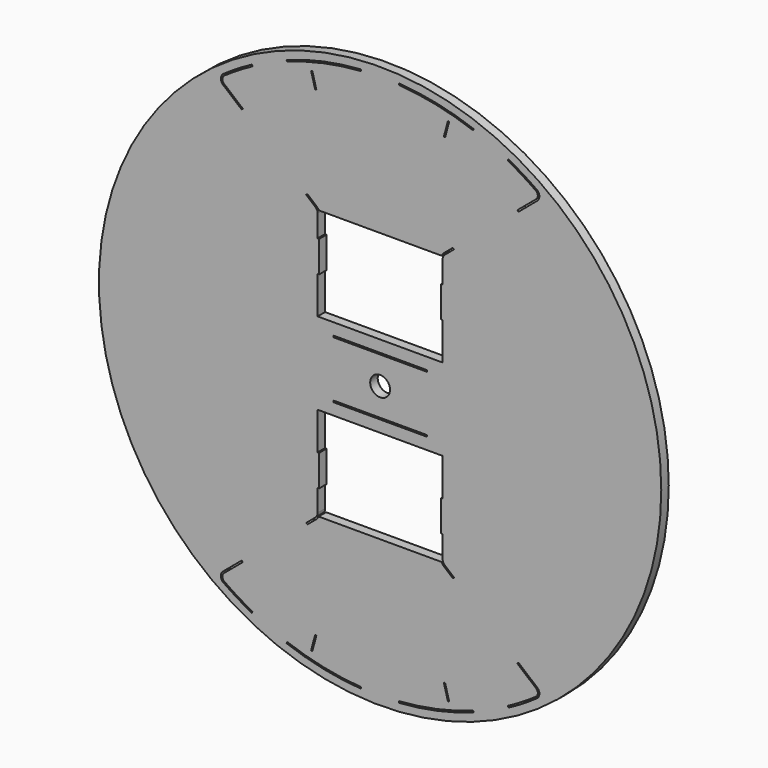
from build123d import *

# Parameters (mm, degrees)
F0_R     = 90
F0_W     = 30
F0_H     = 0.5
F0_R_2   = 3.17
F1_DEPTH = 3


with BuildPart() as f1:
    # F0 (on Front) → F1 (new body)
    with BuildSketch(Plane.XZ):
        Circle(F0_R)
        with BuildLine():
            ThreePointArc((-41.078762, -77.257914), (-45.686982, -74.625396), (-50.127129, -71.718345))
            ThreePointArc((-50.127129, -71.718345), (-50.979425, -70.167154), (-50.266941, -68.546979))
            Line((-50.266941, -68.546979), (-44.332839, -63.567676))
            ThreePointArc((-44.332839, -63.567676), (-44.12, -63.715584), (-43.906667, -63.862779))
            Line((-43.906667, -63.862779), (-49.945547, -68.930001))
            ThreePointArc((-49.945547, -68.930001), (-50.47991, -70.145133), (-49.840688, -71.308525))
            ThreePointArc((-49.840688, -71.308525), (-45.425914, -74.198965), (-40.844026, -76.816441))
            Line((-40.844026, -76.816441), (-41.078762, -77.257914))
        make_face(mode=Mode.SUBTRACT)
        with BuildLine():
            Line((-29.926763, -82.223104), (-29.755752, -81.753258))
            ThreePointArc((-29.755752, -81.753258), (-18.088317, -85.098841), (-6.068813, -86.788072))
            Line((-6.068813, -86.788072), (-6.103691, -87.286854))
            ThreePointArc((-6.103691, -87.286854), (-18.192273, -85.587915), (-29.926763, -82.223104))
        make_face(mode=Mode.SUBTRACT)
        Polygon((-20.795181, -76.835932), (-20.408811, -76.93946), (-21.702906, -81.769089), (-22.089276, -81.665561), align=None, mode=Mode.SUBTRACT)
        with BuildLine():
            Line((6.103691, -87.286854), (6.068813, -86.788072))
            ThreePointArc((6.068813, -86.788072), (18.088317, -85.098841), (29.755752, -81.753258))
            Line((29.755752, -81.753258), (29.926763, -82.223104))
            ThreePointArc((29.926763, -82.223104), (18.192273, -85.587915), (6.103691, -87.286854))
        make_face(mode=Mode.SUBTRACT)
        Polygon((22.089276, -81.665561), (21.702906, -81.769089), (20.408811, -76.93946), (20.795181, -76.835932), align=None, mode=Mode.SUBTRACT)
        with BuildLine():
            ThreePointArc((50.266941, -68.546979), (50.979425, -70.167154), (50.127129, -71.718345))
            ThreePointArc((50.127129, -71.718345), (45.686982, -74.625396), (41.078762, -77.257914))
            Line((41.078762, -77.257914), (40.844026, -76.816441))
            ThreePointArc((40.844026, -76.816441), (45.425914, -74.198965), (49.840688, -71.308525))
            ThreePointArc((49.840688, -71.308525), (50.47991, -70.145133), (49.945547, -68.930001))
            Line((49.945547, -68.930001), (43.906667, -63.862779))
            ThreePointArc((43.906667, -63.862779), (44.12, -63.715584), (44.332839, -63.567676))
            Line((44.332839, -63.567676), (50.266941, -68.546979))
        make_face(mode=Mode.SUBTRACT)
        with BuildLine():
            Line((-23.722514, -46.27356), (-20.714425, -43.749474))
            ThreePointArc((-20.714425, -43.749474), (-20.187384, -43.062621), (-20, -42.217385))
            Line((-20, -42.217385), (-20, -35.15))
            Line((-20, -35.15), (-19.5, -35.15))
            Line((-19.5, -35.15), (-19.5, -25.15))
            Line((-19.5, -25.15), (-20, -25.15))
            Line((-20, -25.15), (-20, -15.15))
            Line((-20, -15.15), (-20, -13.15))
            Line((-20, -13.15), (-18, -13.15))
            Line((-18, -13.15), (-7.5, -13.15))
            Line((-7.5, -13.15), (7.5, -13.15))
            Line((7.5, -13.15), (18, -13.15))
            Line((18, -13.15), (20, -13.15))
            Line((20, -13.15), (20, -15.15))
            Line((20, -15.15), (20, -25.15))
            Line((20, -25.15), (19.5, -25.15))
            Line((19.5, -25.15), (19.5, -35.15))
            Line((19.5, -35.15), (20, -35.15))
            Line((20, -35.15), (20, -42.217385))
            ThreePointArc((20, -42.217385), (20.187384, -43.062621), (20.714425, -43.749474))
            Line((20.714425, -43.749474), (23.722514, -46.27356))
            ThreePointArc((23.722514, -46.27356), (23.480225, -46.396972), (23.237294, -46.519116))
            Line((23.237294, -46.519116), (20.393031, -44.132496))
            ThreePointArc((20.393031, -44.132496), (19.976222, -43.685146), (19.680468, -43.15))
            Line((19.680468, -43.15), (-19.680468, -43.15))
            ThreePointArc((-19.680468, -43.15), (-19.976222, -43.685146), (-20.393031, -44.132496))
            Line((-20.393031, -44.132496), (-23.237294, -46.519116))
            ThreePointArc((-23.237294, -46.519116), (-23.480225, -46.396972), (-23.722514, -46.27356))
        make_face(mode=Mode.SUBTRACT)
        with Locations((0, -9.15)):
            Rectangle(F0_W, F0_H, mode=Mode.SUBTRACT)
        with BuildLine():
            Line((-49.945547, 68.930001), (-43.906667, 63.862779))
            ThreePointArc((-43.906667, 63.862779), (-44.12, 63.715584), (-44.332839, 63.567676))
            Line((-44.332839, 63.567676), (-50.266941, 68.546979))
            ThreePointArc((-50.266941, 68.546979), (-50.979425, 70.167154), (-50.127129, 71.718345))
            ThreePointArc((-50.127129, 71.718345), (-45.686982, 74.625396), (-41.078762, 77.257914))
            Line((-41.078762, 77.257914), (-40.844026, 76.816441))
            ThreePointArc((-40.844026, 76.816441), (-45.425914, 74.198965), (-49.840688, 71.308525))
            ThreePointArc((-49.840688, 71.308525), (-50.47991, 70.145133), (-49.945547, 68.930001))
        make_face(mode=Mode.SUBTRACT)
        Polygon((-22.089276, 81.665561), (-21.702906, 81.769089), (-20.408811, 76.93946), (-20.795181, 76.835932), align=None, mode=Mode.SUBTRACT)
        with BuildLine():
            ThreePointArc((-6.068813, 86.788072), (-18.088317, 85.098841), (-29.755752, 81.753258))
            Line((-29.755752, 81.753258), (-29.926763, 82.223104))
            ThreePointArc((-29.926763, 82.223104), (-18.192273, 85.587915), (-6.103691, 87.286854))
            Line((-6.103691, 87.286854), (-6.068813, 86.788072))
        make_face(mode=Mode.SUBTRACT)
        Circle(F0_R_2, mode=Mode.SUBTRACT)
        with Locations((0, 9.15)):
            Rectangle(F0_W, F0_H, mode=Mode.SUBTRACT)
        with BuildLine():
            ThreePointArc((19.680468, 43.15), (19.976222, 43.685146), (20.393031, 44.132496))
            Line((20.393031, 44.132496), (23.237294, 46.519116))
            ThreePointArc((23.237294, 46.519116), (23.480225, 46.396972), (23.722514, 46.27356))
            Line((23.722514, 46.27356), (20.714425, 43.749474))
            ThreePointArc((20.714425, 43.749474), (20.187384, 43.062621), (20, 42.217385))
            Line((20, 42.217385), (20, 35.15))
            Line((20, 35.15), (19.5, 35.15))
            Line((19.5, 35.15), (19.5, 25.15))
            Line((19.5, 25.15), (20, 25.15))
            Line((20, 25.15), (20, 15.15))
            Line((20, 15.15), (20, 13.15))
            Line((20, 13.15), (18, 13.15))
            Line((18, 13.15), (7.5, 13.15))
            Line((7.5, 13.15), (-7.5, 13.15))
            Line((-7.5, 13.15), (-18, 13.15))
            Line((-18, 13.15), (-20, 13.15))
            Line((-20, 13.15), (-20, 15.15))
            Line((-20, 15.15), (-20, 25.15))
            Line((-20, 25.15), (-19.5, 25.15))
            Line((-19.5, 25.15), (-19.5, 35.15))
            Line((-19.5, 35.15), (-20, 35.15))
            Line((-20, 35.15), (-20, 42.217385))
            ThreePointArc((-20, 42.217385), (-20.187384, 43.062621), (-20.714425, 43.749474))
            Line((-20.714425, 43.749474), (-23.722514, 46.27356))
            ThreePointArc((-23.722514, 46.27356), (-23.480225, 46.396972), (-23.237294, 46.519116))
            Line((-23.237294, 46.519116), (-20.393031, 44.132496))
            ThreePointArc((-20.393031, 44.132496), (-19.976222, 43.685146), (-19.680468, 43.15))
            Line((-19.680468, 43.15), (19.680468, 43.15))
        make_face(mode=Mode.SUBTRACT)
        Polygon((20.795181, 76.835932), (20.408811, 76.93946), (21.702906, 81.769089), (22.089276, 81.665561), align=None, mode=Mode.SUBTRACT)
        with BuildLine():
            Line((29.926763, 82.223104), (29.755752, 81.753258))
            ThreePointArc((29.755752, 81.753258), (18.088317, 85.098841), (6.068813, 86.788072))
            Line((6.068813, 86.788072), (6.103691, 87.286854))
            ThreePointArc((6.103691, 87.286854), (18.192273, 85.587915), (29.926763, 82.223104))
        make_face(mode=Mode.SUBTRACT)
        with BuildLine():
            ThreePointArc((44.332839, 63.567676), (44.12, 63.715584), (43.906667, 63.862779))
            Line((43.906667, 63.862779), (49.945547, 68.930001))
            ThreePointArc((49.945547, 68.930001), (50.47991, 70.145133), (49.840688, 71.308525))
            ThreePointArc((49.840688, 71.308525), (45.425914, 74.198965), (40.844026, 76.816441))
            Line((40.844026, 76.816441), (41.078762, 77.257914))
            ThreePointArc((41.078762, 77.257914), (45.686982, 74.625396), (50.127129, 71.718345))
            ThreePointArc((50.127129, 71.718345), (50.979425, 70.167154), (50.266941, 68.546979))
            Line((50.266941, 68.546979), (44.332839, 63.567676))
        make_face(mode=Mode.SUBTRACT)
    extrude(amount=F1_DEPTH)


solid = f1.part
